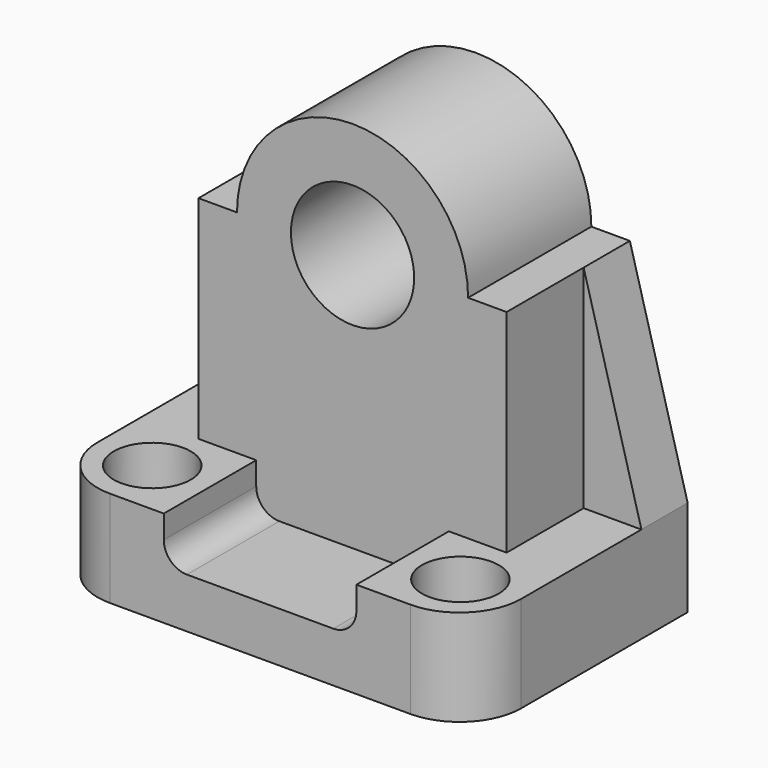
from build123d import *

# Parameters (mm, degrees)
SKETCH_W        = 110
SKETCH_H        = 70
PAD_DEPTH       = 25
SKETCH001_W     = 50
SKETCH001_H     = 12
POCKET_DEPTH    = 70.001
PAD001_DEPTH    = 40
SKETCH003_R     = 16
POCKET001_DEPTH = 70.001
SKETCH004_W     = 15
SKETCH004_H     = 55
POCKET002_DEPTH = 25
POCKET003_DEPTH = 15.001
FILLET_R        = 6
FILLET001_R     = 6
FILLET002_R     = 16
SKETCH006_R     = 10
POCKET004_DEPTH = 25.001


with BuildPart() as part:
    # Sketch → Pad (new body)
    with BuildSketch(Plane.XY):
        Rectangle(SKETCH_W, SKETCH_H)
    extrude(amount=PAD_DEPTH)

    # Sketch001 (on Face3 of Pad) → Pocket (cut, through all)
    with BuildSketch(Plane.XZ.offset(35)):
        with Locations((0, 19)):
            Rectangle(SKETCH001_W, SKETCH001_H)
    extrude(amount=-POCKET_DEPTH, mode=Mode.SUBTRACT)

    # Sketch002 (on Face1 of Pocket) → Pad001 (join)
    with BuildSketch(Plane(origin=(0, 35, 0), x_dir=(-1, 0, 0), z_dir=(0, 1, 0))):
        with BuildLine():
            Line((-55, 25), (-55, 80))
            Line((-55, 80), (-30, 80))
            ThreePointArc((30, 80), (0, 110), (-30, 80))
            Line((55, 80), (30, 80))
            Line((55, 25), (55, 80))
            Line((25, 25), (55, 25))
            Line((25, 13), (25, 25))
            Line((-25, 13), (25, 13))
            Line((-25, 25), (-25, 13))
            Line((-55, 25), (-25, 25))
        make_face()
    extrude(amount=-PAD001_DEPTH)

    # Sketch003 (on Face4 of Pad001) → Pocket001 (cut, through all)
    with BuildSketch(Plane(origin=(0, 35, 0), x_dir=(-1, 0, 0), z_dir=(0, 1, 0))):
        with Locations((0, 80)):
            Circle(SKETCH003_R)
    extrude(amount=-POCKET001_DEPTH, mode=Mode.SUBTRACT)

    # Sketch004 (on Face18 of Pocket001) → Pocket002 (cut)
    with BuildSketch(Plane.XZ.offset(5)):
        with Locations((-47.5, 52.5)):
            Rectangle(SKETCH004_W, SKETCH004_H)
        with Locations((47.5, 52.5)):
            Rectangle(SKETCH004_W, SKETCH004_H)
    extrude(amount=-POCKET002_DEPTH, mode=Mode.SUBTRACT)

    # Sketch005 (on Face24 of Pocket002) → Pocket003 (cut, through all)
    with BuildSketch(Plane.XZ.offset(-20)):
        Polygon((-55, 80), (-55, 25), (-40, 80), align=None)
        Polygon((55, 25), (40, 80), (55, 80), align=None)
    extrude(amount=-POCKET003_DEPTH, mode=Mode.SUBTRACT)

    # Fillet
    fillet_edges = [part.edges().sort_by_distance(p)[0] for p in [
        (25, -20, 13),
    ]]
    fillet(fillet_edges, radius=FILLET_R)

    # Fillet001
    fillet001_edges = [part.edges().sort_by_distance(p)[0] for p in [
        (-25, -20, 13),
    ]]
    fillet(fillet001_edges, radius=FILLET001_R)

    # Fillet002
    fillet002_edges = [part.edges().sort_by_distance(p)[0] for p in [
        (-55, -35, 12.5),
        (55, -35, 12.5),
    ]]
    fillet(fillet002_edges, radius=FILLET002_R)

    # Sketch006 (on Face2 of Fillet002) → Pocket004 (cut, through all)
    with BuildSketch(Plane.XY.offset(25)):
        with Locations((-40, -20)):
            Circle(SKETCH006_R)
        with Locations((40, -20)):
            Circle(SKETCH006_R)
    extrude(amount=-POCKET004_DEPTH, mode=Mode.SUBTRACT)


solid = part.part
